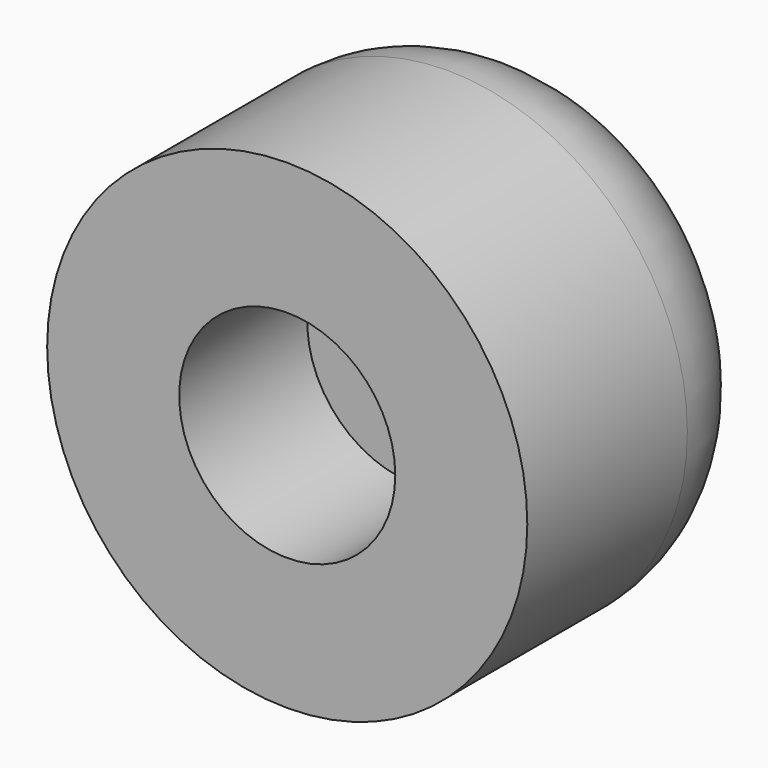
from build123d import *

# Parameters (mm, degrees)
F0_R     = 3
F1_DEPTH = 4
F2_R     = 1.35
F3_DEPTH = 2
F4_R     = 1.5


with BuildPart() as f1:
    # F0 (on Front) → F1 (new body)
    with BuildSketch(Plane.XZ):
        with Locations((-17.472006, 9.866998)):
            Circle(F0_R)
    extrude(amount=F1_DEPTH)

    # F2 (on face) → F3 (cut)
    with BuildSketch(Plane.XZ.offset(4)):
        with Locations((-17.472006, 9.866998)):
            Circle(F2_R)
    extrude(amount=-F3_DEPTH, mode=Mode.SUBTRACT)

    # F4
    f4_edges = [f1.edges().sort_by_distance(p)[0] for p in [
        (-20.472006, 0, 9.866998),
    ]]
    fillet(f4_edges, radius=F4_R)


solid = f1.part
